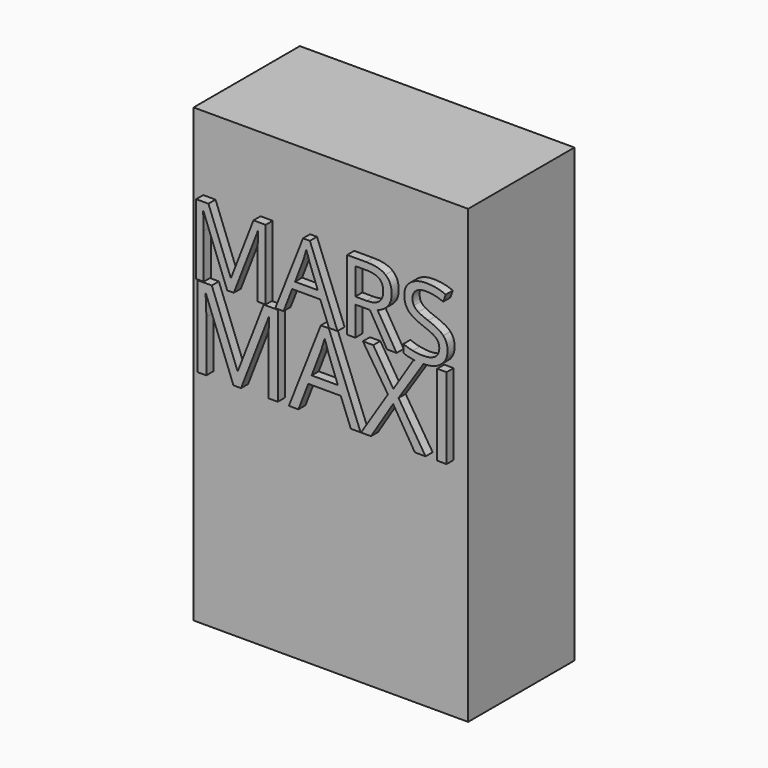
from build123d import *

# Parameters (mm, degrees)
F0_W     = 310
F0_H     = 510
F2_DEPTH = 150
F1_W     = 10.6197465675
F1_H     = 91.3778193352
F3_DEPTH = 10


with BuildPart() as f2:
    # F0 (on Front) → F2 (new body)
    with BuildSketch(Plane.XZ):
        with Locations((155, 255)):
            Rectangle(F0_W, F0_H)
        with Locations((155, 255)):
            Rectangle(F0_W, F0_H)
    extrude(amount=F2_DEPTH)

    # F1 (on face) → F3 (join)
    with BuildSketch(Plane.XZ.offset(150)):
        with BuildLine():
            Line((19.0809580339, 417.4104189371), (45.9677625361, 347.1578007215))
            Line((45.9677625361, 347.1578007215), (53.3919898438, 347.1578007215))
            Line((53.3919898438, 347.1578007215), (80.5042965774, 417.3063409842))
            Line((80.5042965774, 417.3063409842), (80.9379547145, 417.3063409842))
            add(Edge.make_bspline(
                [(80.1747163932, 398.2253829503), (80.1747163932, 407.0026236459), (80.9379547145, 417.3063409842)],
                knots=[0, 0, 0, 1, 1, 1], degree=2))
            Line((80.1747163932, 398.2253829503), (80.1747163932, 347.1578007215))
            Line((80.1747163932, 347.1578007215), (89.3856152259, 347.1578007215))
            Line((89.3856152259, 347.1578007215), (89.3856152259, 426.413161864))
            Line((89.3856152259, 426.413161864), (75.6126327905, 426.413161864))
            Line((75.6126327905, 426.413161864), (50.3043439075, 361.0348611098))
            Line((50.3043439075, 361.0348611098), (49.8706857703, 361.0348611098))
            Line((49.8706857703, 361.0348611098), (24.770552793, 426.413161864))
            Line((24.770552793, 426.413161864), (10.8934924048, 426.413161864))
            Line((10.8934924048, 426.413161864), (10.8934924048, 347.1578007215))
            Line((10.8934924048, 347.1578007215), (19.4105382181, 347.1578007215))
            Line((19.4105382181, 347.1578007215), (19.4105382181, 397.5662225819))
            add(Edge.make_bspline(
                [(18.6472998967, 417.4104189371), (19.4105382181, 409.0668363787), (19.4105382181, 397.5662225819)],
                knots=[0, 0, 0, 1, 1, 1], degree=2))
            Line((18.6472998967, 417.4104189371), (19.0809580339, 417.4104189371))
        make_face()
        Polygon((151.0691486517, 372.3620116517), (160.9392078529, 347.1578007215), (170.4796868698, 347.1578007215), (139.3083399727, 426.7427420482), (131.5545324807, 426.7427420482), (100.2270686542, 347.1578007215), (109.5593917653, 347.1578007215), (119.3080266881, 372.3620116517), align=None)
        with BuildLine():
            Line((138.9787597884, 405.2159521209), (148.2070049466, 380.6535552337))
            Line((148.2070049466, 380.6535552337), (122.5691358793, 380.6535552337))
            Line((122.5691358793, 380.6535552337), (131.8841126649, 405.2159521209))
            add(Edge.make_bspline(
                [(135.3013387856, 416.6471806158), (134.1044423271, 411.4432829702), (131.8841126649, 405.2159521209)],
                knots=[0, 0, 0, 1, 1, 1], degree=2))
            add(Edge.make_bspline(
                [(138.9787597884, 405.2159521209), (137.1920882635, 409.8821136765), (135.3013387856, 416.6471806158)],
                knots=[0, 0, 0, 1, 1, 1], degree=2))
        make_face(mode=Mode.SUBTRACT)
        with BuildLine():
            Line((190.5840781073, 347.1578007215), (190.5840781073, 380.1158191437))
            Line((190.5840781073, 380.1158191437), (207.1324726203, 380.1158191437))
            Line((207.1324726203, 380.1158191437), (226.3175086071, 347.1578007215))
            Line((226.3175086071, 347.1578007215), (237.2110010119, 347.1578007215))
            Line((237.2110010119, 347.1578007215), (215.6842110846, 382.7698069429))
            add(Edge.make_bspline(
                [(231.6254842056, 404.0190556624), (231.6254842056, 388.3032847727), (215.6842110846, 382.7698069429)],
                knots=[0, 0, 0, 1, 1, 1], degree=2))
            add(Edge.make_bspline(
                [(224.6609345232, 420.8276450577), (231.6254842056, 415.2421282515), (231.6254842056, 404.0190556624)],
                knots=[0, 0, 0, 1, 1, 1], degree=2))
            add(Edge.make_bspline(
                [(203.1081251077, 426.413161864), (217.6963848409, 426.413161864), (224.6609345232, 420.8276450577)],
                knots=[0, 0, 0, 1, 1, 1], degree=2))
            Line((203.1081251077, 426.413161864), (181.3731792746, 426.413161864))
            Line((181.3731792746, 426.413161864), (181.3731792746, 347.1578007215))
            Line((181.3731792746, 347.1578007215), (190.5840781073, 347.1578007215))
        make_face()
        with BuildLine():
            Line((203.2295493861, 388.025743565), (190.5840781073, 388.025743565))
            Line((190.5840781073, 388.025743565), (190.5840781073, 418.3297741878))
            Line((190.5840781073, 418.3297741878), (202.5703890177, 418.3297741878))
            add(Edge.make_bspline(
                [(217.4535362841, 414.8605090908), (212.8220673795, 418.3297741878), (202.5703890177, 418.3297741878)],
                knots=[0, 0, 0, 1, 1, 1], degree=2))
            add(Edge.make_bspline(
                [(222.0850051887, 403.5333585489), (222.0850051887, 411.3912439937), (217.4535362841, 414.8605090908)],
                knots=[0, 0, 0, 1, 1, 1], degree=2))
            add(Edge.make_bspline(
                [(217.5315947488, 391.9026473109), (222.0850051887, 395.7795510569), (222.0850051887, 403.5333585489)],
                knots=[0, 0, 0, 1, 1, 1], degree=2))
            add(Edge.make_bspline(
                [(203.2295493861, 388.025743565), (212.9781843089, 388.025743565), (217.5315947488, 391.9026473109)],
                knots=[0, 0, 0, 1, 1, 1], degree=2))
        make_face(mode=Mode.SUBTRACT)
        with BuildLine():
            add(Edge.make_bspline(
                [(294.7140699957, 368.2509325117), (294.7140699957, 357.791098244), (287.1250525959, 351.92804023)],
                knots=[0, 0, 0, 1, 1, 1], degree=2))
            add(Edge.make_bspline(
                [(290.0305621147, 381.4688325315), (294.7140699957, 376.3690128388), (294.7140699957, 368.2509325117)],
                knots=[0, 0, 0, 1, 1, 1], degree=2))
            add(Edge.make_bspline(
                [(272.8750462097, 391.0093115484), (285.3470542336, 386.5686522242), (290.0305621147, 381.4688325315)],
                knots=[0, 0, 0, 1, 1, 1], degree=2))
            add(Edge.make_bspline(
                [(261.842783201, 395.8576095216), (265.450818902, 393.6632993477), (272.8750462097, 391.0093115484)],
                knots=[0, 0, 0, 1, 1, 1], degree=2))
            add(Edge.make_bspline(
                [(256.7169440201, 400.6885611693), (258.2347475001, 398.0519196955), (261.842783201, 395.8576095216)],
                knots=[0, 0, 0, 1, 1, 1], degree=2))
            add(Edge.make_bspline(
                [(255.1991405401, 407.4362817831), (255.1991405401, 403.325202643), (256.7169440201, 400.6885611693)],
                knots=[0, 0, 0, 1, 1, 1], degree=2))
            add(Edge.make_bspline(
                [(259.3188928429, 416.1614835022), (255.1991405401, 413.0217985893), (255.1991405401, 407.4362817831)],
                knots=[0, 0, 0, 1, 1, 1], degree=2))
            add(Edge.make_bspline(
                [(270.7587945005, 419.301168415), (263.4386451457, 419.301168415), (259.3188928429, 416.1614835022)],
                knots=[0, 0, 0, 1, 1, 1], degree=2))
            add(Edge.make_bspline(
                [(289.8397525343, 415.190089275), (280.0217323096, 419.301168415), (270.7587945005, 419.301168415)],
                knots=[0, 0, 0, 1, 1, 1], degree=2))
            Line((289.8397525343, 415.190089275), (292.7192425649, 423.2040916492))
            add(Edge.make_bspline(
                [(270.9842967318, 427.5406730205), (282.7971443873, 427.5406730205), (292.7192425649, 423.2040916492)],
                knots=[0, 0, 0, 1, 1, 1], degree=2))
            add(Edge.make_bspline(
                [(252.7619818095, 422.1199463064), (259.6397998644, 427.5406730205), (270.9842967318, 427.5406730205)],
                knots=[0, 0, 0, 1, 1, 1], degree=2))
            add(Edge.make_bspline(
                [(245.8841637545, 407.540359736), (245.8841637545, 416.6992195922), (252.7619818095, 422.1199463064)],
                knots=[0, 0, 0, 1, 1, 1], degree=2))
            add(Edge.make_bspline(
                [(250.6283837748, 393.3944313027), (245.8841637545, 398.8151580168), (245.8841637545, 407.540359736)],
                knots=[0, 0, 0, 1, 1, 1], degree=2))
            add(Edge.make_bspline(
                [(266.4222131291, 384.0187423779), (255.372603795, 387.9737045885), (250.6283837748, 393.3944313027)],
                knots=[0, 0, 0, 1, 1, 1], degree=2))
            add(Edge.make_bspline(
                [(278.2090412964, 378.9796348244), (274.3321375505, 381.2086376492), (266.4222131291, 384.0187423779)],
                knots=[0, 0, 0, 1, 1, 1], degree=2))
            add(Edge.make_bspline(
                [(283.7425191262, 374.1226636885), (282.0859450424, 376.7506319995), (278.2090412964, 378.9796348244)],
                knots=[0, 0, 0, 1, 1, 1], degree=2))
            add(Edge.make_bspline(
                [(285.3990932101, 367.3836162374), (285.3990932101, 371.4946953775), (283.7425191262, 374.1226636885)],
                knots=[0, 0, 0, 1, 1, 1], degree=2))
            add(Edge.make_bspline(
                [(280.7329316545, 357.6436544774), (285.3990932101, 361.1389390627), (285.3990932101, 367.3836162374)],
                knots=[0, 0, 0, 1, 1, 1], degree=2))
            add(Edge.make_bspline(
                [(266.8558712663, 354.1483698921), (276.066770099, 354.1483698921), (280.7329316545, 357.6436544774)],
                knots=[0, 0, 0, 1, 1, 1], degree=2))
            add(Edge.make_bspline(
                [(255.4766817479, 355.3452663506), (261.2183154836, 354.1483698921), (266.8558712663, 354.1483698921)],
                knots=[0, 0, 0, 1, 1, 1], degree=2))
            add(Edge.make_bspline(
                [(244.8433842254, 358.5890292164), (249.7350480123, 356.5421628091), (255.4766817479, 355.3452663506)],
                knots=[0, 0, 0, 1, 1, 1], degree=2))
            Line((244.8433842254, 358.5890292164), (244.8433842254, 349.7077105679))
            add(Edge.make_bspline(
                [(258.8280174029, 346.3778193352), (250.2145509574, 347.1324936416), (244.8433842254, 349.7077105679)],
                knots=[0.2930527128, 0.2930527128, 0.2930527128, 1, 1, 1], degree=2))
            Line((258.8280174029, 346.3778193352), (267.7336107333, 346.3778193352))
            Line((267.7336107333, 346.3778193352), (267.5348150211, 346.0739358542))
            add(Edge.make_bspline(
                [(287.1250525959, 351.92804023), (279.8326024696, 346.2941016182), (267.5348150211, 346.0739358542)],
                knots=[0, 0, 0, 0.9609215188, 0.9609215188, 0.9609215188], degree=2))
        make_face()
        with BuildLine():
            Line((239.434286076, 303.1188516788), (267.5348150211, 346.0739358542))
            add(Edge.make_bspline(
                [(267.5348150211, 346.0739358542), (267.0346921225, 346.064982216), (266.5262910821, 346.064982216)],
                knots=[0.9609215188, 0.9609215188, 0.9609215188, 1, 1, 1], degree=2))
            add(Edge.make_bspline(
                [(266.5262910821, 346.064982216), (262.3985802363, 346.064982216), (258.8280174029, 346.3778193352)],
                knots=[0, 0, 0, 0.2930527128, 0.2930527128, 0.2930527128], degree=2))
            Line((258.8280174029, 346.3778193352), (256.4338803931, 346.3778193352))
            Line((256.4338803931, 346.3778193352), (233.5544263946, 310.1786832011))
            Line((233.5544263946, 310.1786832011), (210.8749676232, 346.3778193352))
            Line((210.8749676232, 346.3778193352), (199.1152482603, 346.3778193352))
            Line((199.1152482603, 346.3778193352), (227.4345724404, 302.7588602698))
            Line((227.4345724404, 302.7588602698), (197.0552974196, 255))
            Line((197.0552974196, 255), (208.3150287143, 255))
            Line((208.3150287143, 255), (233.3144321219, 295.1790411566))
            Line((233.3144321219, 295.1790411566), (257.8738460294, 255))
            Line((257.8738460294, 255), (269.9335582332, 255))
            Line((269.9335582332, 255), (239.434286076, 303.1188516788))
        make_face()
        with BuildLine():
            add(Edge.make_bspline(
                [(267.5348150211, 346.0739358542), (267.0346921225, 346.064982216), (266.5262910821, 346.064982216)],
                knots=[0.9609215188, 0.9609215188, 0.9609215188, 1, 1, 1], degree=2))
            Line((267.5348150211, 346.0739358542), (267.7336107333, 346.3778193352))
            Line((267.7336107333, 346.3778193352), (258.8280174029, 346.3778193352))
            add(Edge.make_bspline(
                [(266.5262910821, 346.064982216), (262.3985802363, 346.064982216), (258.8280174029, 346.3778193352)],
                knots=[0, 0, 0, 0.2930527128, 0.2930527128, 0.2930527128], degree=2))
        make_face()
        with BuildLine():
            Line((21.9994749986, 335.9980670404), (52.998735224, 255))
            Line((52.998735224, 255), (61.5585309507, 255))
            Line((61.5585309507, 255), (92.8177849715, 335.8780699041))
            Line((92.8177849715, 335.8780699041), (93.3177730397, 335.8780699041))
            add(Edge.make_bspline(
                [(92.4377940397, 313.8785949054), (92.4377940397, 323.9983534048), (93.3177730397, 335.8780699041)],
                knots=[0, 0, 0, 1, 1, 1], degree=2))
            Line((92.4377940397, 313.8785949054), (92.4377940397, 255))
            Line((92.4377940397, 255), (103.0575406072, 255))
            Line((103.0575406072, 255), (103.0575406072, 346.3778193352))
            Line((103.0575406072, 346.3778193352), (87.1779195628, 346.3778193352))
            Line((87.1779195628, 346.3778193352), (57.9986159055, 270.9996181808))
            Line((57.9986159055, 270.9996181808), (57.4986278373, 270.9996181808))
            Line((57.4986278373, 270.9996181808), (28.5593184528, 346.3778193352))
            Line((28.5593184528, 346.3778193352), (12.5597002719, 346.3778193352))
            Line((12.5597002719, 346.3778193352), (12.5597002719, 255))
            Line((12.5597002719, 255), (22.3794659304, 255))
            Line((22.3794659304, 255), (22.3794659304, 313.1186130418))
            add(Edge.make_bspline(
                [(21.4994869305, 335.9980670404), (22.3794659304, 326.3782966092), (22.3794659304, 313.1186130418)],
                knots=[0, 0, 0, 1, 1, 1], degree=2))
            Line((21.4994869305, 335.9980670404), (21.9994749986, 335.9980670404))
        make_face()
        Polygon((174.175843421, 284.0593065209), (185.5555718521, 255), (196.5553093514, 255), (160.6161670127, 346.757810267), (151.6763803542, 346.757810267), (115.557242311, 255), (126.3169855376, 255), (137.5567173096, 284.0593065209), align=None)
        with BuildLine():
            Line((160.2361760809, 321.938402564), (170.8759221712, 293.619078384))
            Line((170.8759221712, 293.619078384), (141.3166275821, 293.619078384))
            Line((141.3166275821, 293.619078384), (152.056371286, 321.938402564))
            add(Edge.make_bspline(
                [(155.996277263, 335.1180880405), (154.6163101949, 329.1182312227), (152.056371286, 321.938402564)],
                knots=[0, 0, 0, 1, 1, 1], degree=2))
            add(Edge.make_bspline(
                [(160.2361760809, 321.938402564), (158.1762252402, 327.3182741773), (155.996277263, 335.1180880405)],
                knots=[0, 0, 0, 1, 1, 1], degree=2))
        make_face(mode=Mode.SUBTRACT)
        with Locations((288.3031198571, 300.6889096676)):
            Rectangle(F1_W, F1_H)
    extrude(amount=F3_DEPTH)


solid = f2.part
